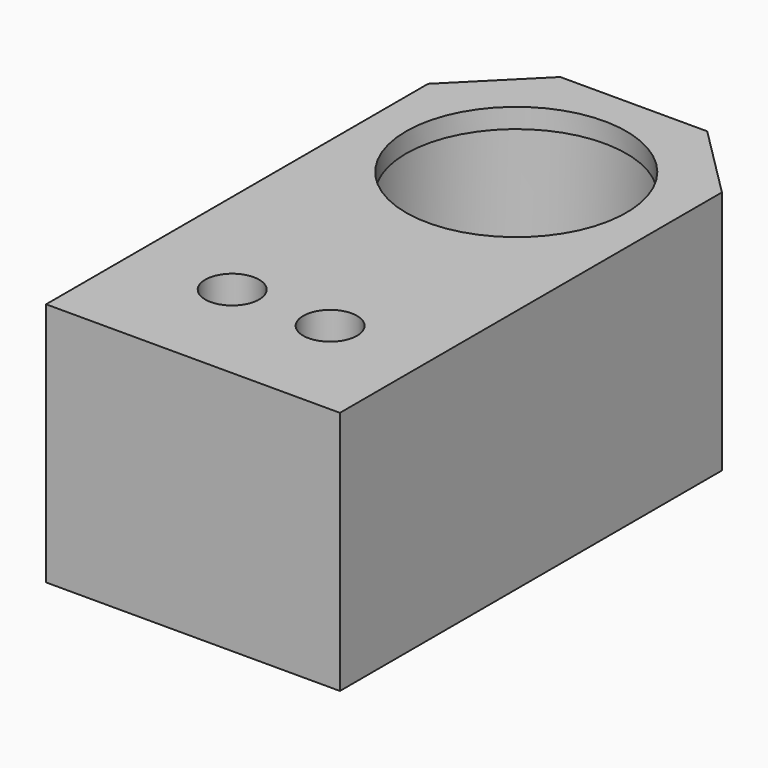
from build123d import *

# Parameters (mm, degrees)
F1_DEPTH = 50
F2_D     = 11
F3_D     = 45
F4_R     = 25
F5_DEPTH = 46
F7_START = 3.5
F6_R     = 26.5
F7_DEPTH = 2.5


with BuildPart() as f1:
    # F0 (on Top) → F1 (new body)
    with BuildSketch(Plane.XY):
        Polygon((15, 30), (-15, 30), (-30, 15), (-30, -82.5), (30, -82.5), (30, 15), align=None)
    extrude(amount=F1_DEPTH)

    # F2 (through all)
    with Locations(Plane(origin=(0, 0, 0), x_dir=(1, 0, 0), z_dir=(0, 0, -1))):
        with Locations((-10, 60), (10, 60)):
            Hole(F2_D / 2)

    # F3 (through all)
    with Locations(Plane(origin=(0, 0, 0), x_dir=(1, 0, 0), z_dir=(0, 0, -1))):
        with Locations((0, 0)):
            Hole(F3_D / 2)

    # F4 (on Top) → F5 (cut)
    with BuildSketch(Plane.XY):
        Circle(F4_R)
    extrude(amount=F5_DEPTH, mode=Mode.SUBTRACT)

    # F6 (on Top) → F7 (cut)
    with BuildSketch(Plane.XY.offset(F7_START)):
        Circle(F6_R)
    extrude(amount=F7_DEPTH, mode=Mode.SUBTRACT)


solid = f1.part
